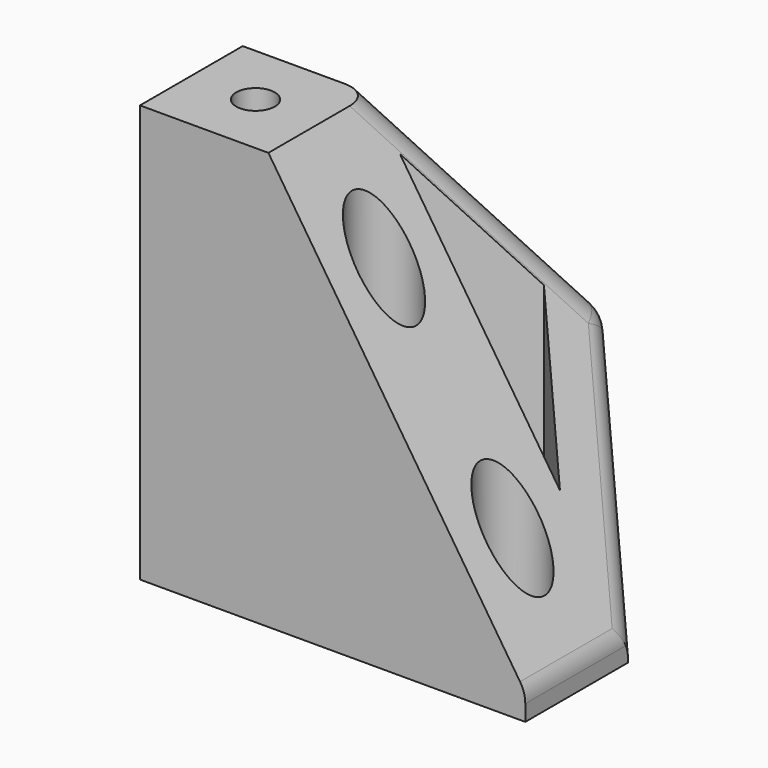
from build123d import *

# Parameters (mm, degrees)
F1_DEPTH  = 65
F3_DEPTH  = 60.001
F5_DEPTH  = 60.001
F6_R      = 2.5
F6_R_2    = 2.6062767238
F6_R_3    = 2.7274571226
F6_R_4    = 2.3400008441
F6_R_5    = 2.2698965194
F7_DEPTH  = 65.001
F8_R      = 5
F9_DEPTH  = 61
F10_R     = 5
F11_R     = 3
F12_DEPTH = 65.001


with BuildPart() as f1:
    # F0 (on Top) → F1 (new body)
    with BuildSketch(Plane.XY):
        Polygon((0, 60), (0, 0), (60, 0), (60, 20), (20, 60), align=None)
        Polygon((49.3933982822, 20), (24.4768448174, 20), (36.9351215498, 32.4582767324), align=None, mode=Mode.SUBTRACT)
        Polygon((32.4582767324, 36.9351215498), (20, 24.4768448174), (20, 49.3933982822), align=None, mode=Mode.SUBTRACT)
    extrude(amount=F1_DEPTH)

    # F2 (on face) → F3 (cut, through all)
    with BuildSketch(Plane.XZ):
        Polygon((60, 65), (20, 65), (60, 4), align=None)
    extrude(amount=-F3_DEPTH, mode=Mode.SUBTRACT)

    # F4 (on face) → F5 (cut, through all)
    with BuildSketch(Plane(origin=(0, 0, 0), x_dir=(0, -1, 0), z_dir=(-1, 0, 0))):
        Polygon((-60, 65), (-60, 4), (-20, 65), align=None)
    extrude(amount=-F5_DEPTH, mode=Mode.SUBTRACT)

    # F6 (on face) → F7 (cut, through all)
    with BuildSketch(Plane(origin=(0, 0, 0), x_dir=(1, 0, 0), z_dir=(0, 0, -1))):
        with Locations((10, -10)):
            Circle(F6_R)
        with Locations((30, -10)):
            Circle(F6_R_2)
        with Locations((50, -10)):
            Circle(F6_R_3)
        with Locations((10, -30)):
            Circle(F6_R_4)
        with Locations((10, -50)):
            Circle(F6_R_5)
    extrude(amount=-F7_DEPTH, mode=Mode.SUBTRACT)

    # F8 (on face) → F9 (cut)
    with BuildSketch(Plane.XY.offset(65)):
        with Locations((30, 10)):
            Circle(F8_R)
        with Locations((50, 10)):
            Circle(F8_R)
        with Locations((10, 30)):
            Circle(F8_R)
        with Locations((10, 50)):
            Circle(F8_R)
    extrude(amount=-F9_DEPTH, mode=Mode.SUBTRACT)

    # F10
    f10_edges = [f1.edges().sort_by_distance(p)[0] for p in [
        (50, 30, 19.25),
        (30, 50, 19.25),
        (60, 10, 4),
        (10, 60, 4),
        (30, 30, 49.75),
    ]]
    fillet(f10_edges, radius=F10_R)

    # F11 (on face) → F12 (cut, through all)
    with BuildSketch(Plane(origin=(0, 0, 0), x_dir=(1, 0, 0), z_dir=(0, 0, -1))):
        with Locations((10, -10)):
            Circle(F11_R)
    extrude(amount=-F12_DEPTH, mode=Mode.SUBTRACT)


solid = f1.part
